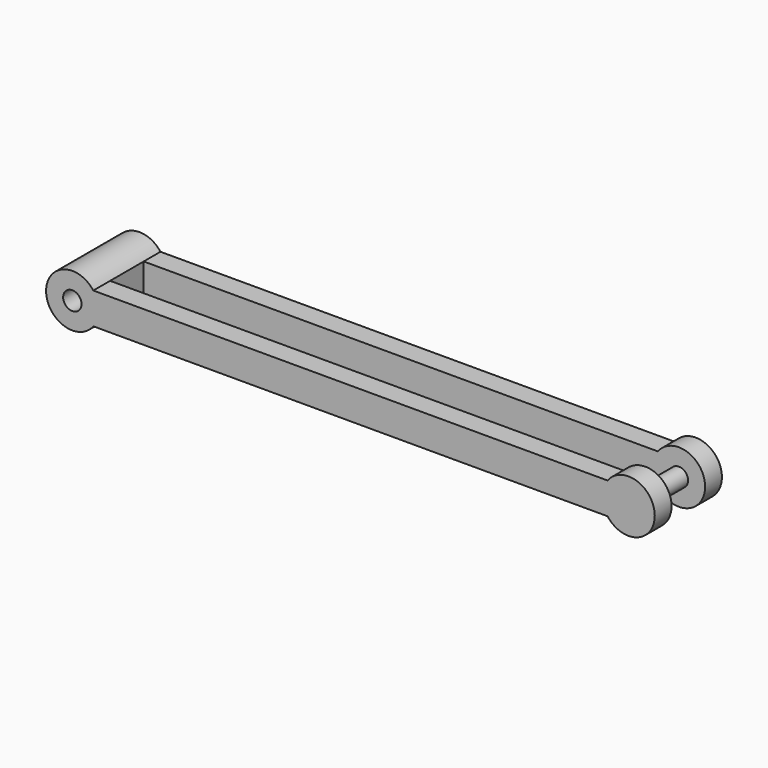
from build123d import *

# Parameters (mm, degrees)
F0_R     = 0.875
F1_DEPTH = 4
F3_DEPTH = 2
F4_DEPTH = 4
F5_W     = 49
F5_H     = 4
F6_DEPTH = 2.5


with BuildPart() as f1:
    # F0 (on Front) → F1 (new body, symmetric)
    with BuildSketch(Plane.XZ):
        with BuildLine():
            ThreePointArc((-23, 1.5), (-27.5, 0), (-23, -1.5))
            Line((-23, -1.5), (26, -1.5))
            ThreePointArc((26, -1.5), (30.5, 0), (26, 1.5))
            Line((26, 1.5), (-23, 1.5))
        make_face()
        with Locations((-25, 0)):
            Circle(F0_R, mode=Mode.SUBTRACT)
        with Locations((28, 0)):
            Circle(F0_R, mode=Mode.SUBTRACT)
    extrude(amount=F1_DEPTH, both=True)

    # F2 (on Front) → F3 (cut, symmetric)
    with BuildSketch(Plane.XZ):
        with BuildLine():
            ThreePointArc((26, -1.5), (28.790569, -2.371708), (30.5, 0))
            ThreePointArc((30.5, 0), (28.790569, 2.371708), (26, 1.5))
            ThreePointArc((26, 1.5), (25.5, 0), (26, -1.5))
        make_face()
    extrude(amount=F3_DEPTH, both=True, mode=Mode.SUBTRACT)

    # F0 (on Front) → F4 (join, symmetric)
    with BuildSketch(Plane.XZ):
        with Locations((28, 0)):
            Circle(F0_R)
    extrude(amount=F4_DEPTH, both=True)

    # F5 (on Top) → F6 (cut, symmetric)
    with BuildSketch(Plane.XY):
        with Locations((1.5, 0)):
            Rectangle(F5_W, F5_H)
    extrude(amount=F6_DEPTH, both=True, mode=Mode.SUBTRACT)


solid = f1.part
